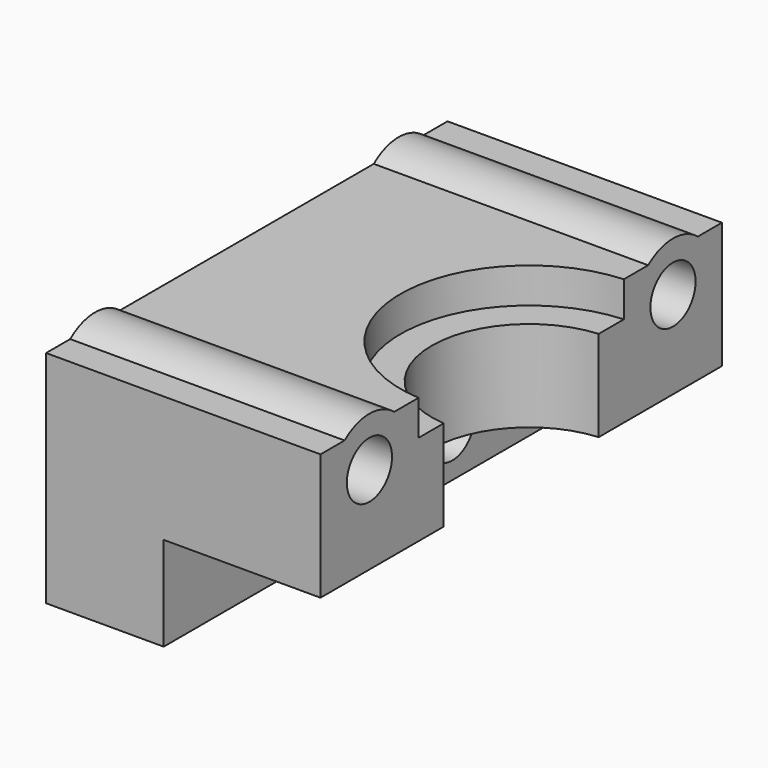
from build123d import *

# Parameters (mm, degrees)
SKETCH017_R     = 1.8
PAD008_DEPTH    = 18
SKETCH018_W     = 32
SKETCH018_H     = 6
POCKET_DEPTH    = 10.5
POCKET001_DEPTH = 14.051
POCKET002_DEPTH = 2.25
SKETCH_W        = 39.26252
SKETCH_H        = 23.934808
POCKET003_DEPTH = 0.5


with BuildPart() as part:
    # Sketch017 → Pad008 (new body)
    with BuildSketch(Plane.YZ):
        with BuildLine():
            Line((-16, 2.25), (-16, 0))
            Line((-16, 0), (-16, -5.8))
            Line((-16, -5.8), (-16, -11.8))
            Line((-16, -11.8), (16, -11.8))
            Line((16, -11.8), (16, -5.8))
            Line((16, -5.8), (16, 0))
            Line((16, 0), (16, 2.25))
            Line((14.079899, 2.25), (16, 2.25))
            ThreePointArc((14.079899, 2.25), (12.1, 2.95), (10.120101, 2.25))
            Line((10.120101, 2.25), (-10.120101, 2.25))
            ThreePointArc((-10.120101, 2.25), (-12.1, 2.95), (-14.079899, 2.25))
            Line((-14.079899, 2.25), (-16, 2.25))
        make_face()
        with Locations((-7, -8.9)):
            Circle(SKETCH017_R, mode=Mode.SUBTRACT)
        with Locations((7, -8.9)):
            Circle(SKETCH017_R, mode=Mode.SUBTRACT)
        with Locations((-12.1, -0.2)):
            Circle(SKETCH017_R, mode=Mode.SUBTRACT)
        with Locations((12.1, -0.2)):
            Circle(SKETCH017_R, mode=Mode.SUBTRACT)
    extrude(amount=-PAD008_DEPTH)

    # Sketch018 (on Face17 of Pad008) → Pocket (cut)
    with BuildSketch(Plane.YZ):
        with Locations((0, -8.8)):
            Rectangle(SKETCH018_W, SKETCH018_H)
    extrude(amount=-POCKET_DEPTH, mode=Mode.SUBTRACT)

    # Sketch019 (on Face3 of Pocket) → Pocket001 (cut, through all)
    with BuildSketch(Plane(origin=(0, 0, 2.25), x_dir=(0, -1, 0), z_dir=(0, 0, 1))):
        with BuildLine():
            ThreePointArc((-6.2, 0), (0, -6.2), (6.2, 0))
            Line((-6.2, 0), (6.2, 0))
        make_face()
    extrude(amount=-POCKET001_DEPTH, mode=Mode.SUBTRACT)

    # Sketch020 (on Face3 of Pocket001) → Pocket002 (cut)
    with BuildSketch(Plane(origin=(0, 0, 2.25), x_dir=(0, -1, 0), z_dir=(0, 0, 1))):
        with BuildLine():
            ThreePointArc((-8.2, 0), (0, -8.2), (8.2, 0))
            Line((-8.2, 0), (8.2, 0))
        make_face()
    extrude(amount=-POCKET002_DEPTH, mode=Mode.SUBTRACT)

    # Sketch (on Face8 of Pocket002) → Pocket003 (cut)
    with BuildSketch(Plane.YZ):
        with Locations((0.008158, -3.713083)):
            Rectangle(SKETCH_W, SKETCH_H)
    extrude(amount=-POCKET003_DEPTH, mode=Mode.SUBTRACT)


solid = part.part
